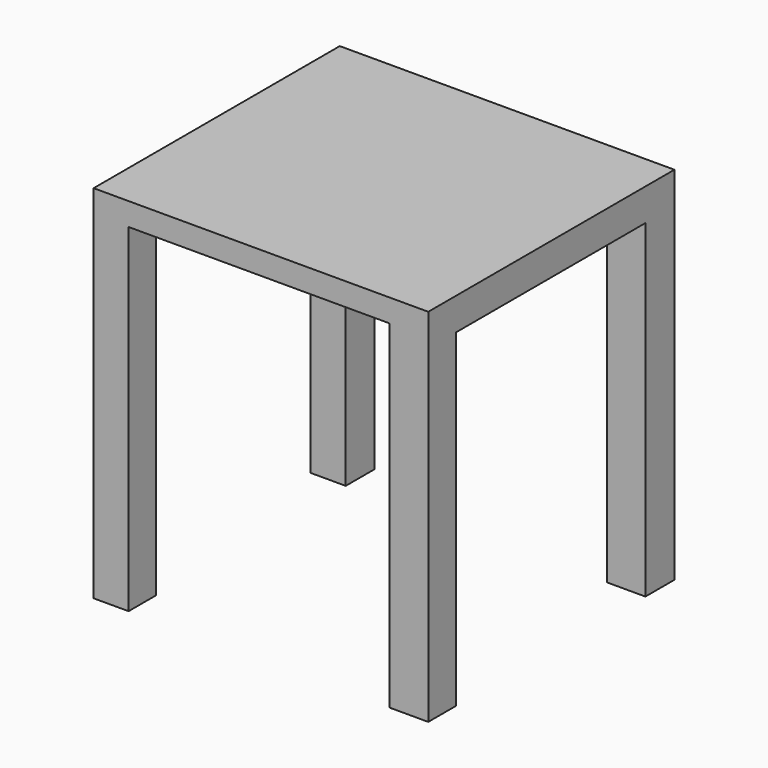
from build123d import *

# Parameters (mm, degrees)
F0_W     = 141.25201
F0_H     = 129.866399
F1_DEPTH = 152.4
F2_W     = 110.178575
F2_H     = 142.77944
F3_DEPTH = 152.4
F4_W     = 100.038202
F4_H     = 138.79922
F5_DEPTH = 152.4


with BuildPart() as f1:
    # F0 (on Top) → F1 (new body)
    with BuildSketch(Plane.XY):
        with Locations((-54.315851, -0.212978)):
            Rectangle(F0_W, F0_H)
    extrude(amount=F1_DEPTH)

    # F2 (on face) → F3 (cut)
    with BuildSketch(Plane.XZ.offset(65.146178)):
        with Locations((-55.089287, 71.38972)):
            Rectangle(F2_W, F2_H)
    extrude(amount=-F3_DEPTH, mode=Mode.SUBTRACT)

    # F4 (on face) → F5 (cut)
    with BuildSketch(Plane.YZ.offset(16.310154)):
        with Locations((-0.600052, 69.39961)):
            Rectangle(F4_W, F4_H)
    extrude(amount=-F5_DEPTH, mode=Mode.SUBTRACT)


solid = f1.part
